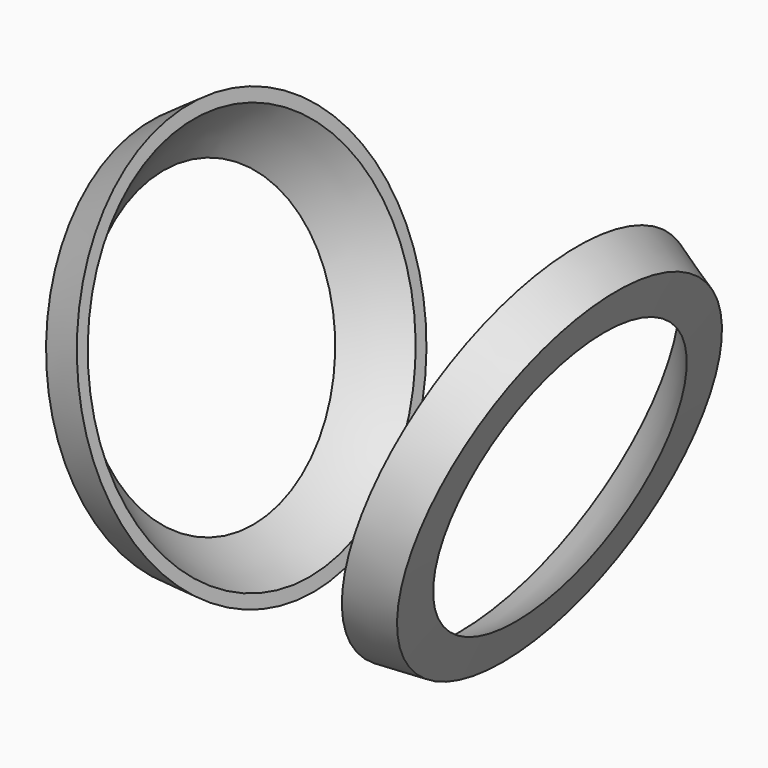
from build123d import *


with BuildPart() as f1:
    # F0 (on Front) → F1 (revolve)
    with BuildSketch(Plane.XZ):
        with BuildLine():
            Line((-31.6014234875, -94.8754448399), (-55.7660811508, -17.5485403173))
            Line((-55.7660811508, -17.5485403173), (-74.8318771378, -23.5896845288))
            Line((-74.8318771378, -23.5896845288), (-55.4547290403, -83.2152211261))
            ThreePointArc((-55.4547290403, -83.2152211261), (-43.9167807051, -89.8405051883), (-31.6014234875, -94.8754448399))
        make_face()
        with BuildLine():
            Line((-30, -100), (-31.6014234875, -94.8754448399))
            ThreePointArc((-31.6014234875, -94.8754448399), (-43.9167807051, -89.8405051883), (-55.4547290403, -83.2152211261))
            Line((-55.4547290403, -83.2152211261), (-50, -100))
            Line((-50, -100), (-30, -100))
        make_face()
    revolve(axis=Axis((-75.5649730165, 0, -23.8219716007), (-0.9532897993, 0, -0.3020572106)))

    # F0 (on Front) → F2 (revolve, cut)
    with BuildSketch(Plane.XZ):
        with BuildLine():
            Line((-31.6014234875, -94.8754448399), (-55.7660811508, -17.5485403173))
            Line((-55.7660811508, -17.5485403173), (-74.8318771378, -23.5896845288))
            Line((-74.8318771378, -23.5896845288), (-55.4547290403, -83.2152211261))
            ThreePointArc((-55.4547290403, -83.2152211261), (-43.9167807051, -89.8405051883), (-31.6014234875, -94.8754448399))
        make_face()
        with BuildLine():
            Line((-74.8318771378, -23.5896845288), (-95.3638648821, -30.0954028841))
            ThreePointArc((-95.3638648821, -30.0954028841), (-79.9499270838, -60.0667059135), (-55.4547290403, -83.2152211261))
            Line((-55.4547290403, -83.2152211261), (-74.8318771378, -23.5896845288))
        make_face()
    revolve(axis=Axis((-75.5649730165, 0, -23.8219716007), (-0.9532897993, 0, -0.3020572106)), mode=Mode.SUBTRACT)


with BuildPart() as f3:
    # F0 (on Front) → F3 (revolve)
    with BuildSketch(Plane.XZ):
        with BuildLine():
            ThreePointArc((31.6014234875, -94.8754448399), (43.9166628588, -89.8405627951), (55.4545107287, -83.2153666088))
            Line((55.4545107287, -83.2153666088), (74.8556807115, -23.51404018))
            Line((74.8556807115, -23.51404018), (55.7660811508, -17.5485403173))
            Line((55.7660811508, -17.5485403173), (31.6014234875, -94.8754448399))
        make_face()
        with BuildLine():
            Line((50, -100), (55.4545107287, -83.2153666088))
            ThreePointArc((55.4545107287, -83.2153666088), (43.9166628588, -89.8405627951), (31.6014234875, -94.8754448399))
            Line((31.6014234875, -94.8754448399), (30, -100))
            Line((30, -100), (50, -100))
        make_face()
    revolve(axis=Axis((65.3108809312, 0, -20.5312902486), (0.954479978, 0, -0.2982749931)))

    # F0 (on Front) → F4 (revolve, cut)
    with BuildSketch(Plane.XZ):
        with BuildLine():
            ThreePointArc((31.6014234875, -94.8754448399), (43.9166628588, -89.8405627951), (55.4545107287, -83.2153666088))
            Line((55.4545107287, -83.2153666088), (74.8556807115, -23.51404018))
            Line((74.8556807115, -23.51404018), (55.7660811508, -17.5485403173))
            Line((55.7660811508, -17.5485403173), (31.6014234875, -94.8754448399))
        make_face()
    revolve(axis=Axis((65.3108809312, 0, -20.5312902486), (0.954479978, 0, -0.2982749931)), mode=Mode.SUBTRACT)


solid = Compound([f1.part, f3.part])
